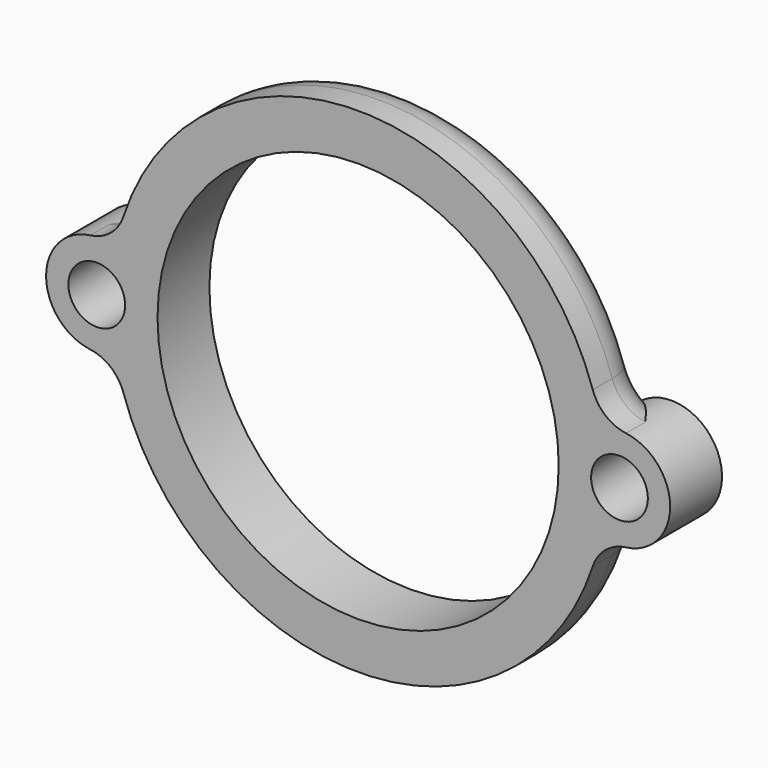
from build123d import *

# Parameters (mm, degrees)
F0_R     = 24.75
F1_DEPTH = 8
F3_R     = 5
F2_R     = 6.25
F2_R_2   = 3.5
F4_DEPTH = 8


with BuildPart() as f1:
    # F0 (on Front) → F1 (new body)
    with BuildSketch(Plane.XZ):
        with BuildLine():
            ThreePointArc((33.056416882, 6.1977569985), (30.5178723488, 7.3005515757), (28.9548531499, 9.5847002596))
            ThreePointArc((28.9548531499, 9.5847002596), (0, 30.5), (-28.9548531499, 9.5847002596))
            ThreePointArc((-28.9548531499, 9.5847002596), (-30.5178723488, 7.3005515757), (-33.056416882, 6.1977569985))
            ThreePointArc((-33.056416882, 6.1977569985), (-28.1255367326, 4.6958814674), (-26, 0))
            ThreePointArc((-26, 0), (-28.1255367326, -4.6958814674), (-33.056416882, -6.1977569985))
            ThreePointArc((-33.056416882, -6.1977569985), (-30.5178723488, -7.3005515757), (-28.9548531499, -9.5847002596))
            ThreePointArc((-28.9548531499, -9.5847002596), (0, -30.5), (28.9548531499, -9.5847002596))
            ThreePointArc((28.9548531499, -9.5847002596), (30.5178723488, -7.3005515757), (33.056416882, -6.1977569985))
            ThreePointArc((33.056416882, -6.1977569985), (26, 0), (33.056416882, 6.1977569985))
        make_face()
        Circle(F0_R, mode=Mode.SUBTRACT)
    extrude(amount=-F1_DEPTH)

    # F3
    f3_edges = [f1.edges().sort_by_distance(p)[0] for p in [
        (30.517872, 8, -7.300552),
        (0, 8, -30.5),
        (0, 8, 30.5),
    ]]
    fillet(f3_edges, radius=F3_R)

    # F2 (on Front) → F4 (join)
    with BuildSketch(Plane.XZ):
        with Locations((32.25, 0)):
            Circle(F2_R)
        with Locations((32.25, 0)):
            Circle(F2_R_2, mode=Mode.SUBTRACT)
        with Locations((-32.25, 0)):
            Circle(F2_R)
        with Locations((-32.25, 0)):
            Circle(F2_R_2, mode=Mode.SUBTRACT)
    extrude(amount=-F4_DEPTH)


solid = f1.part
